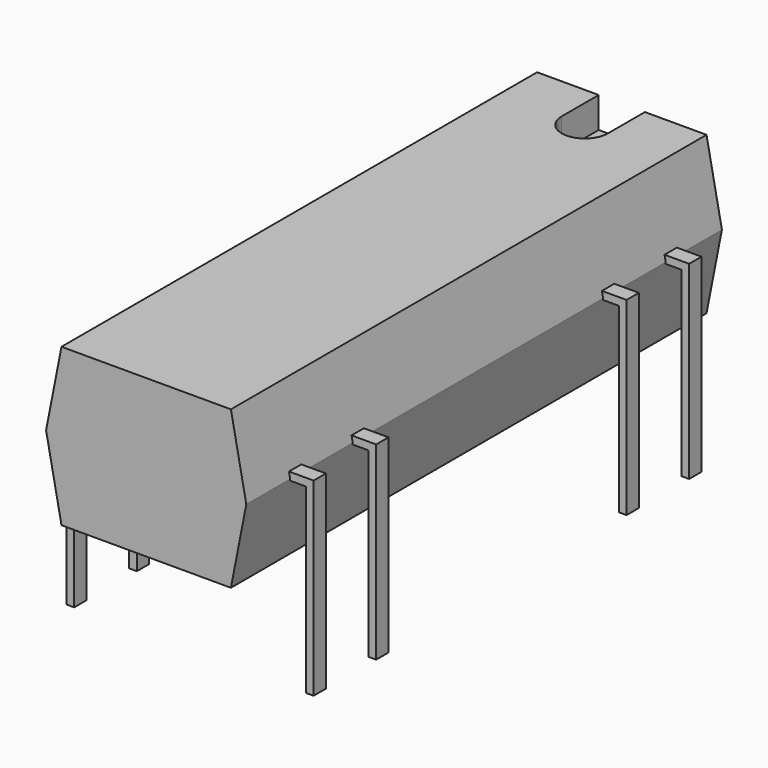
from build123d import *

# Parameters (mm, degrees)
PAD003_DEPTH = 0.25
PAD_DEPTH    = 9.65
POCKET_DEPTH = 1
PAD002_DEPTH = 0.25
PAD001_DEPTH = 0.25
PAD004_DEPTH = 0.25


with BuildPart() as pad003:
    # Sketch004 → Pad003 (new body, symmetric)
    with BuildSketch(Plane.XZ.offset(2.54)):
        Polygon((-0.2, -3.2), (0.05, -3.2), (0.05, 2.7), (7.57, 2.7), (7.57, -3.2), (7.82, -3.2), (7.82, 2.95), (-0.2, 2.95), align=None)
    extrude(amount=PAD003_DEPTH, both=True)


with BuildPart() as pocket:
    # Sketch → Pad (new body, symmetric)
    with BuildSketch(Plane.XZ.offset(7.62)):
        Polygon((1.06, 0.2), (6.56, 0.2), (7.06, 2.75), (6.56, 5.3), (1.06, 5.3), (0.56, 2.75), align=None)
    extrude(amount=PAD_DEPTH, both=True)

    # Sketch003 → Pocket (cut)
    with BuildSketch(Plane(origin=(0, -7.62, 5.3), x_dir=(-1, 0, 0), z_dir=(0, 0, 1))):
        with BuildLine():
            ThreePointArc((-3.06, -8.15), (-3.81, -7.4), (-4.56, -8.15))
            Line((-4.56, -8.15), (-4.56, -9.65))
            Line((-4.56, -9.65), (-3.06, -9.65))
            Line((-3.06, -9.65), (-3.06, -8.15))
        make_face()
    extrude(amount=-POCKET_DEPTH, mode=Mode.SUBTRACT)


with BuildPart() as pad002:
    # Sketch002 → Pad002 (new body, symmetric)
    with BuildSketch(Plane.XZ.offset(15.24)):
        Polygon((-0.2, -3.2), (0.05, -3.2), (0.05, 2.7), (7.57, 2.7), (7.57, -3.2), (7.82, -3.2), (7.82, 2.95), (-0.2, 2.95), align=None)
    extrude(amount=PAD002_DEPTH, both=True)


with BuildPart() as pad001:
    # Sketch001 → Pad001 (new body, symmetric)
    with BuildSketch(Plane.XZ):
        Polygon((-0.2, -3.2), (0.05, -3.2), (0.05, 2.7), (7.57, 2.7), (7.57, -3.2), (7.82, -3.2), (7.82, 2.95), (-0.2, 2.95), align=None)
    extrude(amount=PAD001_DEPTH, both=True)


with BuildPart() as obj1:
    # Sketch005 → Pad004 (new body, symmetric)
    with BuildSketch(Plane.XZ.offset(12.7)):
        Polygon((-0.2, -3.2), (0.05, -3.2), (0.05, 2.7), (7.57, 2.7), (7.57, -3.2), (7.82, -3.2), (7.82, 2.95), (-0.2, 2.95), align=None)
    extrude(amount=PAD004_DEPTH, both=True)

    add(pad003.part)
    add(pocket.part)
    add(pad002.part)
    add(pad001.part)


solid = obj1.part
